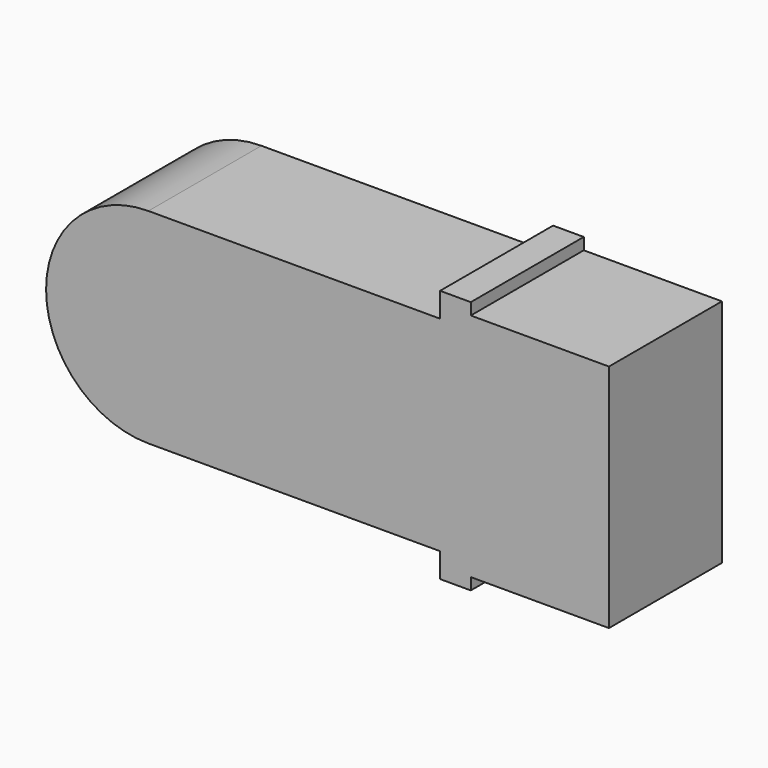
from build123d import *

# Parameters (mm, degrees)
PAD_DEPTH              = 13.8
BOX002_W               = 3
BOX002_H               = 10
BOX002_DEPTH           = 3
CYLINDER001_R          = 1.5
CYLINDER001_DEPTH      = 9.7
CYLINDER001_ROLL_ANGLE = 90
CLONE_PLACEMENT_ANGLE  = 180


with BuildPart() as motorbody:
    # Sketch → Pad (new body)
    with BuildSketch(Plane.XZ):
        with BuildLine():
            Line((-45, 21.25), (-16.5, 21.25))
            Line((-16.5, 21.25), (-16.5, 23.65))
            Line((-16.5, 23.65), (-13.5, 23.65))
            Line((-13.5, 23.65), (-13.5, 22.5))
            Line((-13.5, 22.5), (0, 22.5))
            Line((0, 22.5), (0, 0))
            Line((-13.5, 0), (0, 0))
            Line((-13.5, -1.15), (-13.5, 0))
            Line((-13.5, -1.15), (-16.5, -1.15))
            Line((-16.5, -1.15), (-16.5, 1.25))
            Line((-16.5, 1.25), (-44.999948, 1.25))
            ThreePointArc((-45, 21.25), (-54.999971, 11.249974), (-44.999948, 1.25))
        make_face()
    extrude(amount=PAD_DEPTH)


with BuildPart() as cube001:
    # Box002 → Box002 (new body)
    with BuildSketch(Plane(origin=(-46.5, -23.7, 12.25), x_dir=(1, 0, 0), z_dir=(0, 0, 1))):
        with Locations((1.5, 5)):
            Rectangle(BOX002_W, BOX002_H)
    extrude(amount=BOX002_DEPTH)


with BuildPart() as clone_of_motor:
    # Cylinder001 → Cylinder001 (new body)
    with BuildSketch(Plane.XY):
        Circle(CYLINDER001_R)
    extrude(amount=CYLINDER001_DEPTH)


with BuildPart() as clone_of_motor_1:
    # Cylinder001 roll: moved
    add(clone_of_motor.part.rotate(Axis((0, 0, 0), (1, 0, 0)), CYLINDER001_ROLL_ANGLE))


with BuildPart() as clone_of_motor_2:
    # Cylinder001 placement: moved
    add(clone_of_motor_1.part.moved(Location((-45, -13.8, 11.25))))

    # Cut: cut Cube001
    add(cube001.part, mode=Mode.SUBTRACT)

    # Fusion001: union motorBody
    add(motorbody.part)


with BuildPart() as clone_of_motor_3:
    # Fusion001 placement: moved
    add(clone_of_motor_2.part.moved(Location((34.1, -23.1, -1.5))))


with BuildPart() as clone_of_motor_4:
    # Clone placement: moved
    add(clone_of_motor_3.part.moved(Location((0, 13, 19.5))).rotate(Axis((0, 13, 19.5), (1, 0, 0)), CLONE_PLACEMENT_ANGLE))


solid = clone_of_motor_4.part
